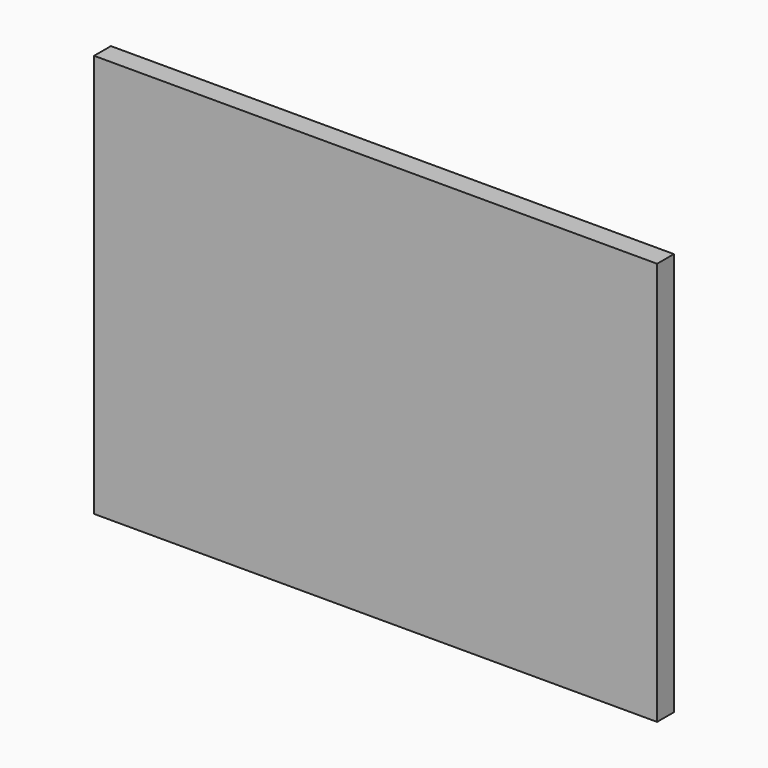
from build123d import *

# Parameters (mm, degrees)
F0_W     = 110
F0_H     = 180
F0_W_2   = 90
F0_H_2   = 160
F1_DEPTH = 25
F2_W     = 20
F2_H     = 290
F4_DEPTH = 25
F3_W     = 410
F3_H     = 10
F5_DEPTH = 25
F6_W     = 670
F6_H     = 480
F7_DEPTH = 25


with BuildPart() as f1:
    # F0 (on Front) → F1 (new body)
    with BuildSketch(Plane.XZ):
        Polygon((50.290362, -27.218565), (50.290362, 0), (50.290362, 52.781435), (-59.709638, 52.781435), (-59.709638, -27.218565), align=None)
        Polygon((-49.709638, 0), (-49.709638, 42.781435), (40.290362, 42.781435), (40.290362, 0), (40.290362, -17.218565), (-49.709638, -17.218565), align=None, mode=Mode.SUBTRACT)
        with Locations((-4.709638, -127.218565)):
            Rectangle(F0_W, F0_H)
        with Locations((-4.709638, -127.218565)):
            Rectangle(F0_W_2, F0_H_2, mode=Mode.SUBTRACT)
    extrude(amount=F1_DEPTH)


with BuildPart() as f4:
    # F2 (on Front) → F4 (new body)
    with BuildSketch(Plane.XZ):
        with Locations((-70.149703, -71.920078)):
            Rectangle(F2_W, F2_H)
    extrude(amount=F4_DEPTH)


with BuildPart() as f5:
    # F3 (on Front) → F5 (new body)
    with BuildSketch(Plane.XZ):
        with Locations((132.768793, -237.12192)):
            Rectangle(F3_W, F3_H)
    extrude(amount=F5_DEPTH)


with BuildPart() as f7:
    # F6 (on Front) → F7 (new body)
    with BuildSketch(Plane.XZ):
        with Locations((108.935901, -89.921156)):
            Rectangle(F6_W, F6_H)
    extrude(amount=F7_DEPTH)


solid = Compound([f1.part, f4.part, f5.part, f7.part])
